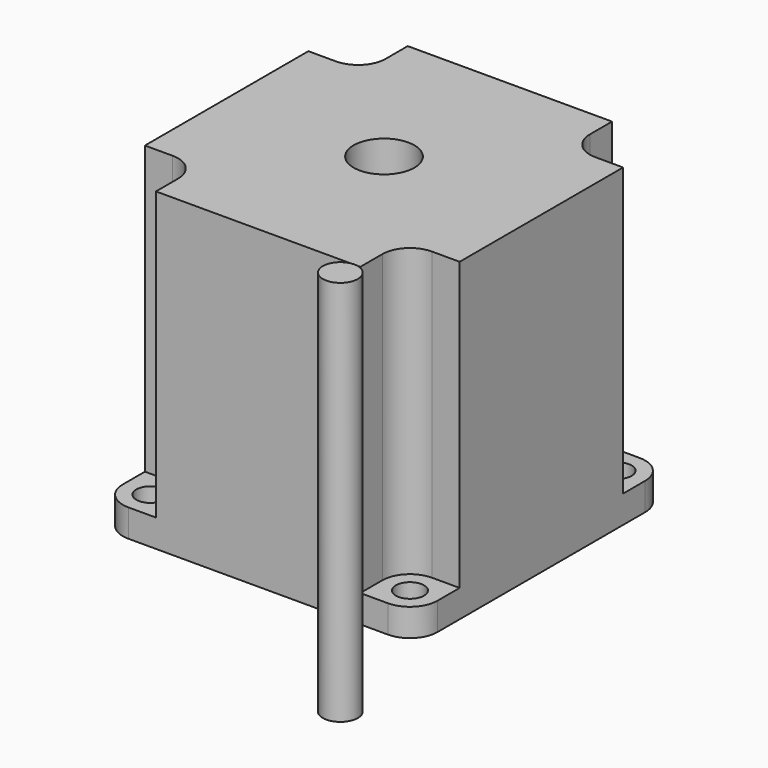
from build123d import *

# Parameters (mm, degrees)
F0_R      = 2.55
F1_DEPTH  = 4
F2_R      = 19
F3_DEPTH  = 1.6
F4_R      = 3.175
F5_DEPTH  = 25
F6_DEPTH  = 1
F7_R      = 3.175
F8_DEPTH  = 52
F9_R      = 3.1725
F10_DEPTH = 70
F11_R     = 5.5
F12_DEPTH = 6


with BuildPart() as f1:
    # F0 (on Top) → F1 (new body)
    with BuildSketch(Plane.XY):
        with BuildLine():
            ThreePointArc((28.5, 23.5), (27.0355339059, 27.0355339059), (23.5, 28.5))
            Line((23.5, 28.5), (-23.5, 28.5))
            ThreePointArc((-23.5, 28.5), (-27.0355339059, 27.0355339059), (-28.5, 23.5))
            Line((-28.5, 23.5), (-28.5, -23.5))
            ThreePointArc((-28.5, -23.5), (-27.0355339059, -27.0355339059), (-23.5, -28.5))
            Line((-23.5, -28.5), (23.5, -28.5))
            ThreePointArc((23.5, -28.5), (27.0355339059, -27.0355339059), (28.5, -23.5))
            Line((28.5, -23.5), (28.5, 23.5))
        make_face()
        with Locations((-23.5, -23.5)):
            Circle(F0_R, mode=Mode.SUBTRACT)
        with Locations((23.5, -23.5)):
            Circle(F0_R, mode=Mode.SUBTRACT)
        with Locations((-23.5, 23.5)):
            Circle(F0_R, mode=Mode.SUBTRACT)
        with Locations((23.5, 23.5)):
            Circle(F0_R, mode=Mode.SUBTRACT)
    extrude(amount=F1_DEPTH)

    # F2 (on face) → F3 (join)
    with BuildSketch(Plane(origin=(0, 0, 0), x_dir=(1, 0, 0), z_dir=(0, 0, -1))):
        Circle(F2_R)
    extrude(amount=F3_DEPTH)

    # F4 (on face) → F5 (cut)
    with BuildSketch(Plane(origin=(0, 0, -1.6), x_dir=(1, 0, 0), z_dir=(0, 0, -1))):
        Circle(F4_R)
    extrude(amount=-F5_DEPTH, mode=Mode.SUBTRACT)

    # F6 (add): a face of the model
    f6_faces = [f1.faces().sort_by_distance(p)[0] for p in [
        (26.4655339059, 26.4655339059, 4),
    ]]
    extrude(f6_faces, amount=F6_DEPTH)

    # F7 (on face) → F8 (join)
    with BuildSketch(Plane.XY.offset(5)):
        with BuildLine():
            ThreePointArc((23.5, 18.5), (19.9644660941, 19.9644660941), (18.5, 23.5))
            Line((18.5, 23.5), (18.5, 28.5))
            Line((18.5, 28.5), (-18.5, 28.5))
            Line((-18.5, 28.5), (-18.5, 23.5))
            ThreePointArc((-18.5, 23.5), (-19.9644660941, 19.9644660941), (-23.5, 18.5))
            Line((-23.5, 18.5), (-28.5, 18.5))
            Line((-28.5, 18.5), (-28.5, -18.5))
            Line((-28.5, -18.5), (-23.5, -18.5))
            ThreePointArc((-23.5, -18.5), (-19.9644660941, -19.9644660941), (-18.5, -23.5))
            Line((-18.5, -23.5), (-18.5, -28.5))
            Line((-18.5, -28.5), (18.5, -28.5))
            Line((18.5, -28.5), (18.5, -23.5))
            ThreePointArc((18.5, -23.5), (19.9644660941, -19.9644660941), (23.5, -18.5))
            Line((23.5, -18.5), (28.5, -18.5))
            Line((28.5, -18.5), (28.5, 18.5))
            Line((28.5, 18.5), (23.5, 18.5))
        make_face()
        Circle(F7_R, mode=Mode.SUBTRACT)
    extrude(amount=F8_DEPTH)

    # F11 (on face) → F12 (cut)
    with BuildSketch(Plane.XY.offset(57)):
        Circle(F11_R)
    extrude(amount=-F12_DEPTH, mode=Mode.SUBTRACT)


with BuildPart() as f10:
    # F9 (on Top) → F10 (new body)
    with BuildSketch(Plane.XY):
        with Locations((32.9795107245, -51.1064752936)):
            Circle(F9_R)
    extrude(amount=F10_DEPTH)


solid = Compound([f1.part, f10.part])
